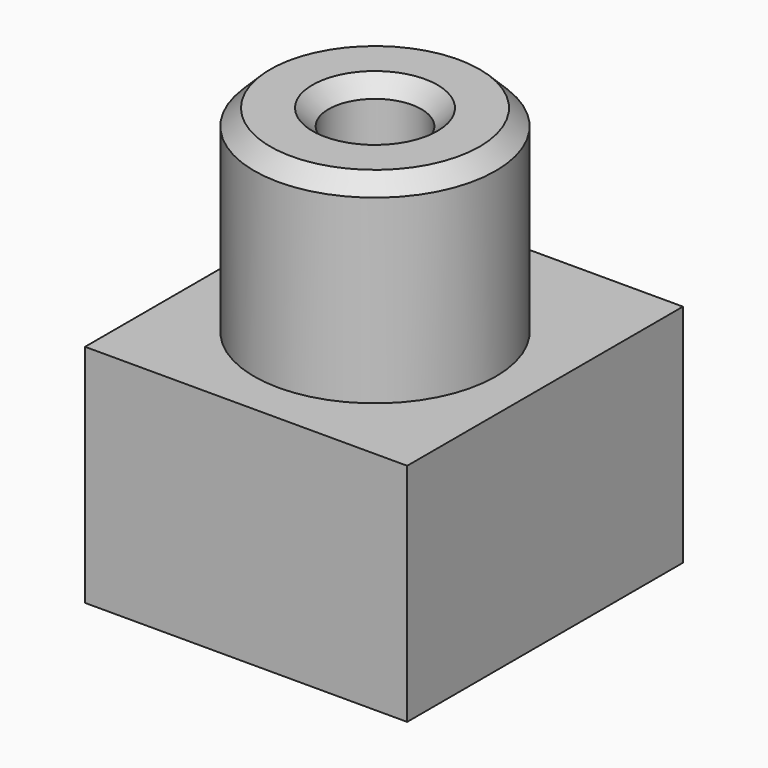
from build123d import *

# Parameters (mm, degrees)
F0_W     = 100
F0_H     = 70
F1_DEPTH = 107
F2_R     = 37.5
F3_DEPTH = 61.2
F4_R     = 14.4000008702
F5_DEPTH = 131.201
F6_SIZE  = 5


with BuildPart() as f1:
    # F0 (on Front) → F1 (new body)
    with BuildSketch(Plane.XZ):
        with Locations((50, 35)):
            Rectangle(F0_W, F0_H)
    extrude(amount=F1_DEPTH)

    # F2 (on face) → F3 (join)
    with BuildSketch(Plane.XY.offset(70)):
        with Locations((50, -57)):
            Circle(F2_R)
    extrude(amount=F3_DEPTH)

    # F4 (on face) → F5 (cut, through all)
    with BuildSketch(Plane.XY.offset(131.2)):
        with Locations((50, -57)):
            Circle(F4_R)
    extrude(amount=-F5_DEPTH, mode=Mode.SUBTRACT)

    # F6
    f6_edges = [f1.edges().sort_by_distance(p)[0] for p in [
        (12.5, -57, 131.2),
        (35.599999, -57, 131.2),
        (35.599999, -57, 0),
    ]]
    chamfer(f6_edges, length=F6_SIZE)


solid = f1.part
